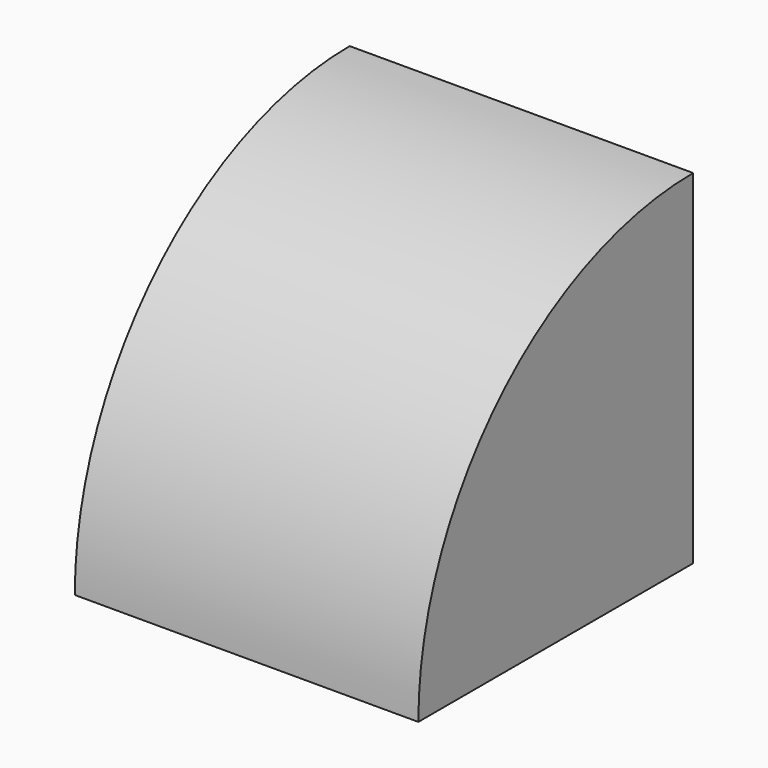
from build123d import *

# Parameters (mm, degrees)
SKETCH004_W      = 0.5
SKETCH004_H      = 0.5
EXTRUDE004_DEPTH = 0.5
SKETCH003_R      = 0.5
EXTRUDE003_DEPTH = 0.5


with BuildPart() as extrude004:
    # Sketch004 → Extrude004 (new body)
    with BuildSketch(Plane.YZ.offset(-1.5)):
        with Locations((-1.25, 0)):
            Rectangle(SKETCH004_W, SKETCH004_H)
    extrude(amount=EXTRUDE004_DEPTH)


with BuildPart() as common001:
    # Sketch003 → Extrude003 (new body)
    with BuildSketch(Plane.YZ.offset(-1.5)):
        with Locations((-1, -0.25)):
            Circle(SKETCH003_R)
    extrude(amount=EXTRUDE003_DEPTH)

    # Common001: intersect Extrude004
    add(extrude004.part, mode=Mode.INTERSECT)


solid = common001.part
